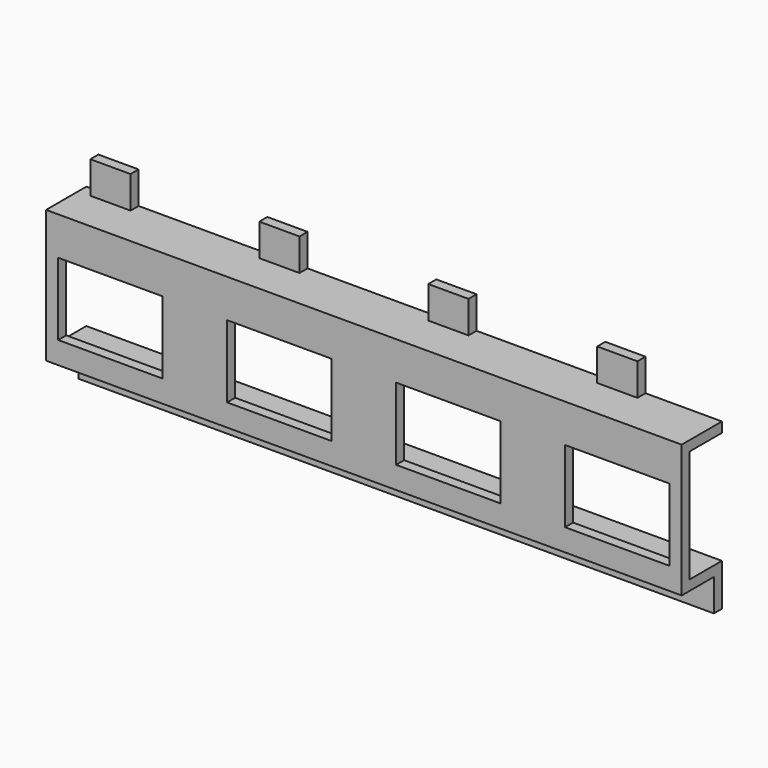
from build123d import *

# Parameters (mm, degrees)
F1_DEPTH  = 116
F2_W      = 26
F2_H      = 18
F3_DEPTH  = 12.501
F4_W      = 19
F4_H      = 8
F4_W_2    = 32
F4_W_3    = 3
F5_DEPTH  = 12.501
F7_DEPTH  = 158
F8_W      = 26
F8_H      = 18
F9_DEPTH  = 12.501
F10_W     = 19
F10_H     = 8
F10_W_2   = 32
F10_W_3   = 3
F11_DEPTH = 12.501


with BuildPart() as f1:
    # F0 (on Right) → F1 (new body)
    with BuildSketch(Plane.YZ):
        Polygon((-2.5, 0), (0, 0), (0, 10.5), (-10, 10.5), (-10, 38.5), (0, 38.5), (0, 49), (-2.5, 49), (-2.5, 41), (-12.5, 41), (-12.5, 8), (-2.5, 8), align=None)
    extrude(amount=F1_DEPTH)

    # F2 (on Front) → F3 (cut, through all)
    with BuildSketch(Plane.XZ):
        with Locations((16, 22.5)):
            Rectangle(F2_W, F2_H)
        with Locations((58, 22.5)):
            Rectangle(F2_W, F2_H)
        with Locations((100, 22.5)):
            Rectangle(F2_W, F2_H)
    extrude(amount=F3_DEPTH, mode=Mode.SUBTRACT)

    # F4 (on Front) → F5 (cut, through all)
    with BuildSketch(Plane.XZ):
        with Locations((9.5, 4)):
            Rectangle(F4_W, F4_H)
        with Locations((45, 4)):
            Rectangle(F4_W_2, F4_H)
        with Locations((87, 4)):
            Rectangle(F4_W_2, F4_H)
        with Locations((114.5, 4)):
            Rectangle(F4_W_3, F4_H)
    extrude(amount=F5_DEPTH, mode=Mode.SUBTRACT)


with BuildPart() as f7:
    # F0 (on Right) → F7 (new body)
    with BuildSketch(Plane.YZ):
        Polygon((-2.5, 0), (0, 0), (0, 10.5), (-10, 10.5), (-10, 38.5), (0, 38.5), (0, 49), (-2.5, 49), (-2.5, 41), (-12.5, 41), (-12.5, 8), (-2.5, 8), align=None)
    extrude(amount=-F7_DEPTH)

    # F8 (on Front) → F9 (cut, through all)
    with BuildSketch(Plane.XZ):
        with Locations((-16, 22.5)):
            Rectangle(F8_W, F8_H)
        with Locations((-58, 22.5)):
            Rectangle(F8_W, F8_H)
        with Locations((-100, 22.5)):
            Rectangle(F8_W, F8_H)
        with Locations((-142, 22.5)):
            Rectangle(F8_W, F8_H)
    extrude(amount=F9_DEPTH, mode=Mode.SUBTRACT)

    # F10 (on Front) → F11 (cut, through all)
    with BuildSketch(Plane.XZ):
        with Locations((-9.5, 45)):
            Rectangle(F10_W, F10_H)
        with Locations((-45, 45)):
            Rectangle(F10_W_2, F10_H)
        with Locations((-87, 45)):
            Rectangle(F10_W_2, F10_H)
        with Locations((-129, 45)):
            Rectangle(F10_W_2, F10_H)
        with Locations((-156.5, 45)):
            Rectangle(F10_W_3, F10_H)
    extrude(amount=F11_DEPTH, mode=Mode.SUBTRACT)


solid = f7.part
